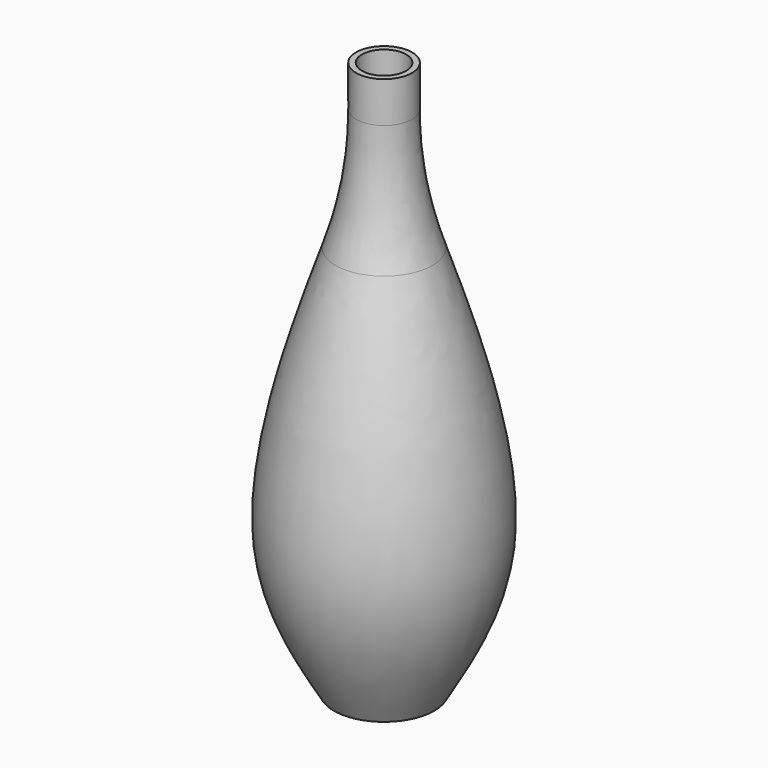
from build123d import *

# Parameters (mm, degrees)
F2_R = 63.9257610042
F3_T = -1


with BuildPart() as f1:
    # F0 (on Front) → F1 (revolve)
    with BuildSketch(Plane.XZ):
        with BuildLine():
            Line((0, 51.7868362367), (0, -43.1353934457))
            Line((0, -43.1353934457), (8.6023934132, -43.1353934457))
            add(Edge.make_bspline(
                [(4.792612046, 33.6814150214), (6.4702965222, 29.1063513278), (10.6518792023, 17.7031301777), (22.0667391325, -20.1700738714), (12.7880478817, -35.9961759523), (8.6023934132, -43.1353934457)],
                knots=[0, 0, 0, 0, 0.2688862788, 0.6701916972, 1, 1, 1, 1], degree=3))
            Line((4.792612046, 33.6814150214), (4.792612046, 43.0003851652))
            Line((4.792612046, 43.0003851652), (4.792612046, 51.7868362367))
            Line((4.792612046, 51.7868362367), (0, 51.7868362367))
        make_face()
    revolve(axis=Axis((0, 0, 6.251396594), (0, 0, -1)))

    # F2
    f2_edges = [f1.edges().sort_by_distance(p)[0] for p in [
        (-4.792612, 0, 33.681415),
        (4.792612, 0, 42.734126),
    ]]
    fillet(f2_edges, radius=F2_R)

    # F3
    f3_openings = [f1.faces().sort_by_distance(p)[0] for p in [
        (0, 0, 51.786836),
    ]]
    offset(amount=F3_T, openings=f3_openings, kind=Kind.INTERSECTION)


solid = f1.part
